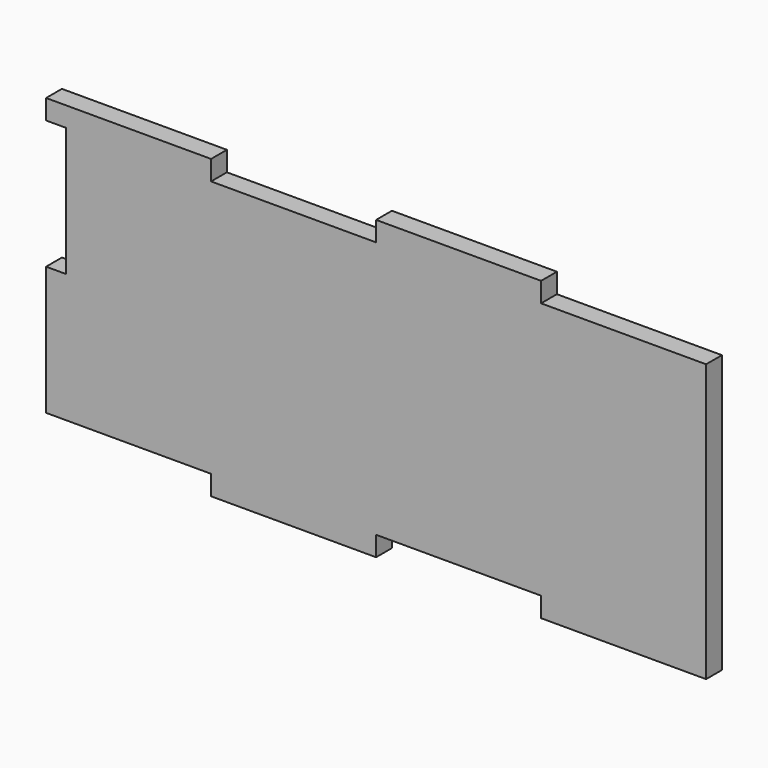
from build123d import *

# Parameters (mm, degrees)
RECTANGLE127_AS_DRAWN_W                      = 25
RECTANGLE127_AS_DRAWN_H                      = 3
EXTRUDE155_DEPTH                             = 3
EXTRUDE155_ONTO_RECTANGLE127_ROLL_ANGLE      = -90
EXTRUDE155_ONTO_RECTANGLE127_PLACEMENT_ANGLE = 180
RECTANGLE128_AS_DRAWN_W                      = 25
RECTANGLE128_AS_DRAWN_H                      = 3
EXTRUDE157_DEPTH                             = 3
EXTRUDE157_ONTO_RECTANGLE128_ROLL_ANGLE      = -90
EXTRUDE157_ONTO_RECTANGLE128_PLACEMENT_ANGLE = 180
RECTANGLE130_AS_DRAWN_W                      = 25
RECTANGLE130_AS_DRAWN_H                      = 3
EXTRUDE162_DEPTH                             = 3
EXTRUDE162_ONTO_RECTANGLE130_ROLL_ANGLE      = -90
EXTRUDE162_ONTO_RECTANGLE130_PLACEMENT_ANGLE = 180
EXTRUDE160_DEPTH                             = 3
EXTRUDE160_ONTO_RECTANGLE127_ROLL_ANGLE      = -90
EXTRUDE160_ONTO_RECTANGLE127_PLACEMENT_ANGLE = 180
RECTANGLE132_AS_DRAWN_W                      = 3
RECTANGLE132_AS_DRAWN_H                      = 19.5
EXTRUDE168_DEPTH                             = 3
EXTRUDE168_ONTO_RECTANGLE132_ROLL_ANGLE      = -90
EXTRUDE168_ONTO_RECTANGLE132_PLACEMENT_ANGLE = 180
BOX043_W                                     = 100
BOX043_H                                     = 3
BOX043_DEPTH                                 = 45


with BuildPart() as extrude155:
    # Rectangle127 as drawn → Extrude155 (new)
    with BuildSketch(Plane.XY):
        with Locations((12.5, 1.5)):
            Rectangle(RECTANGLE127_AS_DRAWN_W, RECTANGLE127_AS_DRAWN_H)
    extrude(amount=-EXTRUDE155_DEPTH)


with BuildPart() as extrude155_1:
    # Extrude155 onto Rectangle127 roll: moved
    add(extrude155.part.rotate(Axis((0, 0, 0), (1, 0, 0)), EXTRUDE155_ONTO_RECTANGLE127_ROLL_ANGLE))


with BuildPart() as extrude155_2:
    # Extrude155 onto Rectangle127 placement: moved
    add(extrude155_1.part.moved(Location((114, -77, -70))).rotate(Axis((114, -77, -70), (0, 0, 1)), EXTRUDE155_ONTO_RECTANGLE127_PLACEMENT_ANGLE))


with BuildPart() as extrude155_3:
    # Extrude155 placement: moved
    add(extrude155_2.part.moved(Location((-183, 0, 0))))


with BuildPart() as extrude157:
    # Rectangle128 as drawn → Extrude157 (new)
    with BuildSketch(Plane.XY):
        with Locations((12.5, 1.5)):
            Rectangle(RECTANGLE128_AS_DRAWN_W, RECTANGLE128_AS_DRAWN_H)
    extrude(amount=-EXTRUDE157_DEPTH)


with BuildPart() as extrude157_1:
    # Extrude157 onto Rectangle128 roll: moved
    add(extrude157.part.rotate(Axis((0, 0, 0), (1, 0, 0)), EXTRUDE157_ONTO_RECTANGLE128_ROLL_ANGLE))


with BuildPart() as extrude157_2:
    # Extrude157 onto Rectangle128 placement: moved
    add(extrude157_1.part.moved(Location((89, -77, -70))).rotate(Axis((89, -77, -70), (0, 0, 1)), EXTRUDE157_ONTO_RECTANGLE128_PLACEMENT_ANGLE))


with BuildPart() as extrude157_3:
    # Extrude157 placement: moved
    add(extrude157_2.part.moved(Location((-208, 0, 0))))


with BuildPart() as extrude162:
    # Rectangle130 as drawn → Extrude162 (new)
    with BuildSketch(Plane.XY):
        with Locations((12.5, 1.5)):
            Rectangle(RECTANGLE130_AS_DRAWN_W, RECTANGLE130_AS_DRAWN_H)
    extrude(amount=-EXTRUDE162_DEPTH)


with BuildPart() as extrude162_1:
    # Extrude162 onto Rectangle130 roll: moved
    add(extrude162.part.rotate(Axis((0, 0, 0), (1, 0, 0)), EXTRUDE162_ONTO_RECTANGLE130_ROLL_ANGLE))


with BuildPart() as extrude162_2:
    # Extrude162 onto Rectangle130 placement: moved
    add(extrude162_1.part.moved(Location((39, -77, -70))).rotate(Axis((39, -77, -70), (0, 0, 1)), EXTRUDE162_ONTO_RECTANGLE130_PLACEMENT_ANGLE))


with BuildPart() as extrude162_3:
    # Extrude162 placement: moved
    add(extrude162_2.part.moved(Location((-183, 0, -42))))


with BuildPart() as extrude160:
    # Rectangle127 as drawn → Extrude160 (new)
    with BuildSketch(Plane.XY):
        with Locations((12.5, 1.5)):
            Rectangle(RECTANGLE127_AS_DRAWN_W, RECTANGLE127_AS_DRAWN_H)
    extrude(amount=-EXTRUDE160_DEPTH)


with BuildPart() as extrude160_1:
    # Extrude160 onto Rectangle127 roll: moved
    add(extrude160.part.rotate(Axis((0, 0, 0), (1, 0, 0)), EXTRUDE160_ONTO_RECTANGLE127_ROLL_ANGLE))


with BuildPart() as extrude160_2:
    # Extrude160 onto Rectangle127 placement: moved
    add(extrude160_1.part.moved(Location((114, -77, -70))).rotate(Axis((114, -77, -70), (0, 0, 1)), EXTRUDE160_ONTO_RECTANGLE127_PLACEMENT_ANGLE))


with BuildPart() as extrude160_3:
    # Extrude160 placement: moved
    add(extrude160_2.part.moved(Location((-208, 0, -42))))


with BuildPart() as fusion064027:
    # Rectangle132 as drawn → Extrude168 (new)
    with BuildSketch(Plane.XY):
        with Locations((1.5, 9.75)):
            Rectangle(RECTANGLE132_AS_DRAWN_W, RECTANGLE132_AS_DRAWN_H)
    extrude(amount=-EXTRUDE168_DEPTH)


with BuildPart() as fusion064027_1:
    # Extrude168 onto Rectangle132 roll: moved
    add(fusion064027.part.rotate(Axis((0, 0, 0), (1, 0, 0)), EXTRUDE168_ONTO_RECTANGLE132_ROLL_ANGLE))


with BuildPart() as fusion064027_2:
    # Extrude168 onto Rectangle132 placement: moved
    add(fusion064027_1.part.moved(Location((114, -77, -92.5))).rotate(Axis((114, -77, -92.5), (0, 0, 1)), EXTRUDE168_ONTO_RECTANGLE132_PLACEMENT_ANGLE))


with BuildPart() as fusion064027_3:
    # Extrude168 placement: moved
    add(fusion064027_2.part.moved(Location((-280, 0, 19.5))))

    # Fusion064027: union Extrude155, Extrude157, Extrude162, Extrude160
    add(extrude155_3.part)
    add(extrude157_3.part)
    add(extrude162_3.part)
    add(extrude160_3.part)


with BuildPart() as fusion064027_4:
    # Fusion064027 placement: moved
    add(fusion064027_3.part.moved(Location((0, 152, 0))))


with BuildPart() as cut035016:
    # Box043 → Box043 (new body)
    with BuildSketch(Plane(origin=(-169, 75, -115), x_dir=(1, 0, 0), z_dir=(0, 0, 1))):
        with Locations((50, 1.5)):
            Rectangle(BOX043_W, BOX043_H)
    extrude(amount=BOX043_DEPTH)

    # Cut035016: cut Fusion064027
    add(fusion064027_4.part, mode=Mode.SUBTRACT)


solid = cut035016.part
